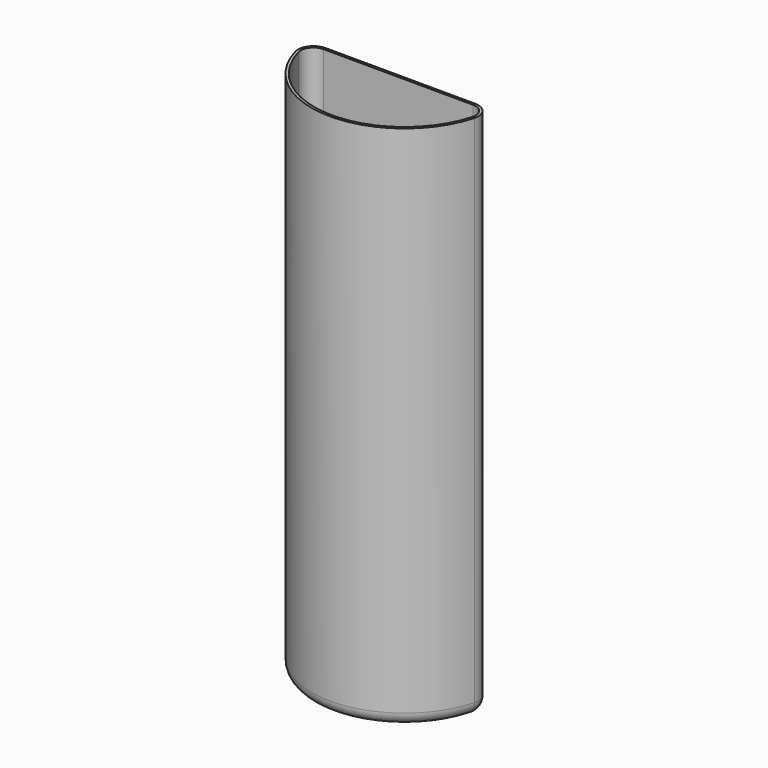
from build123d import *

# Parameters (mm, degrees)
F1_DEPTH = 207
F2_R     = 5
F3_T     = -1


with BuildPart() as f1:
    # F0 (on Top) → F1 (new body)
    with BuildSketch(Plane.XY):
        with BuildLine():
            ThreePointArc((-29.4389327221, -1.8971663562), (-34.2138220516, -4.2365060198), (-35.2552827265, -9.450663462))
            ThreePointArc((-35.2552827265, -9.450663462), (-0.1275131337, -36.4997772651), (35.1883905908, -9.696760677))
            ThreePointArc((35.1883905908, -9.696760677), (34.1833865425, -4.4754538451), (29.4249586801, -2.1028092345))
            Line((29.4249586801, -2.1028092345), (-29.4389327221, -1.8971663562))
        make_face()
    extrude(amount=F1_DEPTH)

    # F2
    f2_edges = [f1.edges().sort_by_distance(p)[0] for p in [
        (-0.127513, -36.499777, 0),
    ]]
    fillet(f2_edges, radius=F2_R)

    # F3
    f3_openings = [f1.faces().sort_by_distance(p)[0] for p in [
        (-0.058469, -16.736236, 207),
    ]]
    offset(amount=F3_T, openings=f3_openings)


solid = f1.part
